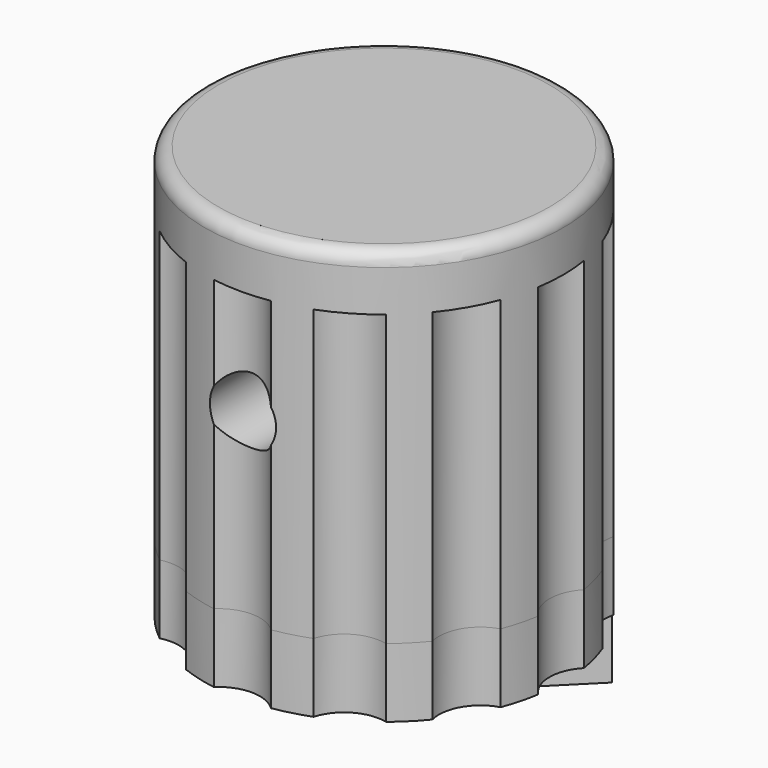
from build123d import *

# Parameters (mm, degrees)
F2_R      = 3.05
F3_DEPTH  = 13
F4_R      = 0.5
F5_R      = 1.2
F6_DEPTH  = 7
F7_R      = 1.5
F8_DEPTH  = 13
F10_DEPTH = 2.5
F11_DEPTH = 2.5
F13_DEPTH = 2.5


with BuildPart() as f1:
    # F0 (on Front) → F1 (revolve)
    with BuildSketch(Plane.XZ):
        Polygon((-5, 0), (0, 0), (0, 15), (-6.5, 15), (-6.5, 0), align=None)
    revolve(axis=Axis((0, 0, -3.6677676575), (0, 0, -1)))

    # F2 (on face) → F3 (cut)
    with BuildSketch(Plane(origin=(0, 0, 0), x_dir=(1, 0, 0), z_dir=(0, 0, -1))):
        Circle(F2_R)
    extrude(amount=-F3_DEPTH, mode=Mode.SUBTRACT)

    # F4
    f4_edges = [f1.edges().sort_by_distance(p)[0] for p in [
        (6.5, 0, 15),
    ]]
    fillet(f4_edges, radius=F4_R)

    # F5 (on Front) → F6 (cut)
    with BuildSketch(Plane.XZ):
        with Locations((0, 9)):
            Circle(F5_R)
    extrude(amount=F6_DEPTH, mode=Mode.SUBTRACT)

    # F7 (on face) → F8 (cut)
    with BuildSketch(Plane(origin=(0, 0, 0), x_dir=(1, 0, 0), z_dir=(0, 0, -1))):
        with Locations((-7.5, 0)):
            Circle(F7_R)
        with Locations((-6.4951905284, -3.75)):
            Circle(F7_R)
        with Locations((-3.75, -6.4951905284)):
            Circle(F7_R)
        with Locations((0, -7.5)):
            Circle(F7_R)
        with Locations((3.75, -6.4951905284)):
            Circle(F7_R)
        with Locations((6.4951905284, -3.75)):
            Circle(F7_R)
        with Locations((7.5, 0)):
            Circle(F7_R)
        with Locations((6.4951905284, 3.75)):
            Circle(F7_R)
        with Locations((3.75, 6.4951905284)):
            Circle(F7_R)
        with Locations((0, 7.5)):
            Circle(F7_R)
        with Locations((-3.75, 6.4951905284)):
            Circle(F7_R)
        with Locations((-6.4951905284, 3.75)):
            Circle(F7_R)
    extrude(amount=-F8_DEPTH, mode=Mode.SUBTRACT)

    # F9 (on face) → F10 (cut)
    with BuildSketch(Plane(origin=(0, 0, 0), x_dir=(1, 0, 0), z_dir=(0, 0, -1))):
        with BuildLine():
            Line((-5.6568542495, -5.6568542495), (0, 0))
            Line((0, 0), (5.6568542495, -5.6568542495))
            ThreePointArc((5.6568542495, -5.6568542495), (0, 8), (-5.6568542495, -5.6568542495))
        make_face()
    extrude(amount=-F10_DEPTH, mode=Mode.SUBTRACT)

    # F11 (add): faces of the model
    f11_faces = [f1.faces().sort_by_distance(p)[0] for p in [
        (-4.6979425412, 4.2437625345, 2.5),
        (0, 4.3753680924, 0),
    ]]
    extrude(f11_faces, amount=F11_DEPTH)

    # F12 (on face) → F13 (cut)
    with BuildSketch(Plane(origin=(0, 0, -2.5), x_dir=(1, 0, 0), z_dir=(0, 0, -1))):
        with BuildLine():
            ThreePointArc((2.1566756826, -2.1566756826), (0, -3.05), (-2.1566756826, -2.1566756826))
            Line((-2.1566756826, -2.1566756826), (-2.8637824638, -2.8637824638))
            ThreePointArc((-2.8637824638, -2.8637824638), (0, -4.0711582499), (2.8637824638, -2.8637824638))
            Line((2.8637824638, -2.8637824638), (2.1566756826, -2.1566756826))
        make_face()
    extrude(amount=-F13_DEPTH, mode=Mode.SUBTRACT)


solid = f1.part
